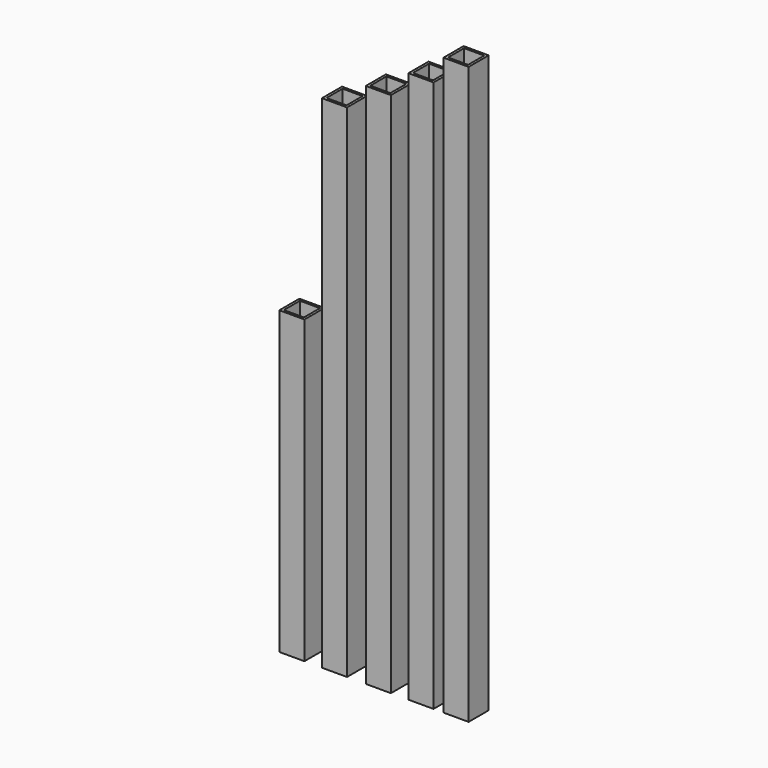
from build123d import *

# Parameters (mm, degrees)
SKETCH_W      = 20
SKETCH_H      = 20
SKETCH_W_2    = 16
SKETCH_H_2    = 16
PAD_DEPTH     = 240
SKETCH001_W   = 20
SKETCH001_H   = 20
SKETCH001_W_2 = 16
SKETCH001_H_2 = 16
PAD001_DEPTH  = 400
SKETCH002_W   = 20
SKETCH002_H   = 20
SKETCH002_W_2 = 16
SKETCH002_H_2 = 16
PAD002_DEPTH  = 440
SKETCH003_W   = 20
SKETCH003_H   = 20
SKETCH003_W_2 = 16
SKETCH003_H_2 = 16
PAD003_DEPTH  = 460
SKETCH004_W   = 20
SKETCH004_H   = 20
SKETCH004_W_2 = 16
SKETCH004_H_2 = 16
PAD004_DEPTH  = 420


with BuildPart() as body20x20x240tube:
    # Sketch → Pad (new body)
    with BuildSketch(Plane.XY):
        Rectangle(SKETCH_W, SKETCH_H)
        Rectangle(SKETCH_W_2, SKETCH_H_2, mode=Mode.SUBTRACT)
    extrude(amount=PAD_DEPTH)


with BuildPart() as body20x20x240tube_1:
    # Body placement: moved
    add(body20x20x240tube.part.moved(Location((-72, 0, 0))))


with BuildPart() as body20x20x400tube:
    # Sketch001 → Pad001 (new body)
    with BuildSketch(Plane.XY):
        Rectangle(SKETCH001_W, SKETCH001_H)
        Rectangle(SKETCH001_W_2, SKETCH001_H_2, mode=Mode.SUBTRACT)
    extrude(amount=PAD001_DEPTH)


with BuildPart() as body20x20x400tube_1:
    # Body001 placement: moved
    add(body20x20x400tube.part.moved(Location((-38, 0, 0))))


with BuildPart() as body20x20x440:
    # Sketch002 → Pad002 (new body)
    with BuildSketch(Plane.XY):
        Rectangle(SKETCH002_W, SKETCH002_H)
        Rectangle(SKETCH002_W_2, SKETCH002_H_2, mode=Mode.SUBTRACT)
    extrude(amount=PAD002_DEPTH)


with BuildPart() as body20x20x440_1:
    # Body002 placement: moved
    add(body20x20x440.part.moved(Location((31, 0, 0))))


with BuildPart() as body20x20x460:
    # Sketch003 → Pad003 (new body)
    with BuildSketch(Plane.XY):
        Rectangle(SKETCH003_W, SKETCH003_H)
        Rectangle(SKETCH003_W_2, SKETCH003_H_2, mode=Mode.SUBTRACT)
    extrude(amount=PAD003_DEPTH)


with BuildPart() as body20x20x460_1:
    # Body003 placement: moved
    add(body20x20x460.part.moved(Location((59, 0, 0))))


with BuildPart() as body20x20x420tube:
    # Sketch004 → Pad004 (new body)
    with BuildSketch(Plane.XY):
        Rectangle(SKETCH004_W, SKETCH004_H)
        Rectangle(SKETCH004_W_2, SKETCH004_H_2, mode=Mode.SUBTRACT)
    extrude(amount=PAD004_DEPTH)


with BuildPart() as body20x20x420tube_1:
    # Body004 placement: moved
    add(body20x20x420tube.part.moved(Location((-3, 0, 0))))


solid = Compound([body20x20x240tube_1.part, body20x20x400tube_1.part, body20x20x440_1.part, body20x20x460_1.part, body20x20x420tube_1.part])
